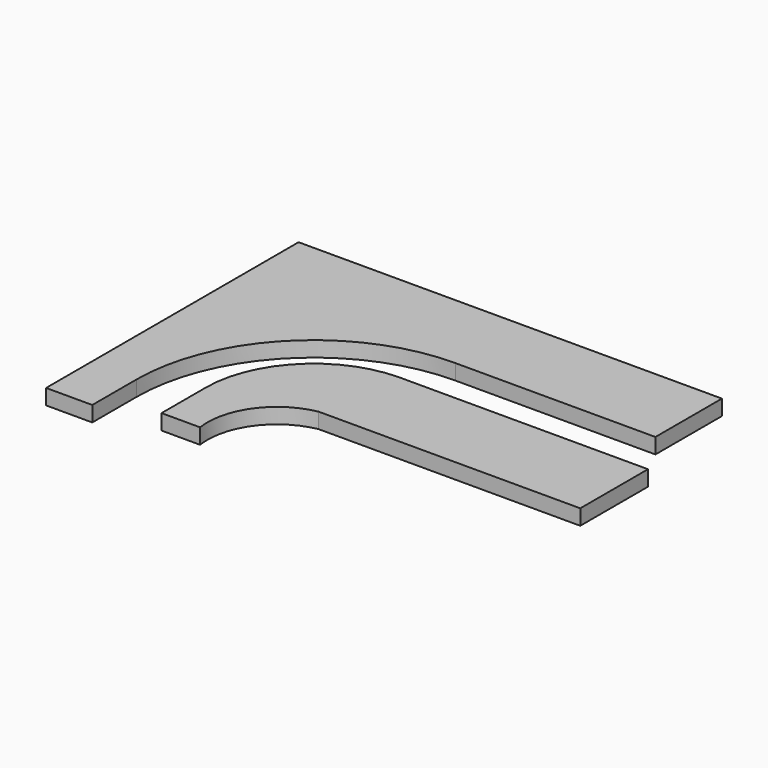
from build123d import *

# Parameters (mm, degrees)
F1_DEPTH = 10
F2_W     = 30
F2_H     = 55
F3_DEPTH = 10


with BuildPart() as f1:
    # F0 (on Top) → F1 (new body)
    with BuildSketch(Plane.XY):
        with BuildLine():
            Line((44.326924, 230.576925), (-230.673076, 230.576925))
            Line((-230.673076, 230.576925), (-230.673076, 25.576925))
            Line((-230.673076, 25.576925), (-200.673076, 25.576925))
            Line((-200.673076, 25.576925), (-200.673076, 61.576925))
            ThreePointArc((-200.673076, 61.576925), (-166.990356, 142.894205), (-85.673076, 176.576925))
            Line((-85.673076, 176.576925), (44.326924, 176.576925))
            Line((44.326924, 176.576925), (44.326924, 230.576925))
        make_face()
    extrude(amount=F1_DEPTH)


with BuildPart() as f3:
    # F2 (on face) → F3 (new body)
    with BuildSketch(Plane.XY.offset(10)):
        with Locations((60.513443, 104.076925)):
            Rectangle(F2_W, F2_H)
        with BuildLine():
            Line((45.513443, 131.576925), (-85.673076, 131.576925))
            ThreePointArc((-85.673076, 131.576925), (-135.170551, 111.0744), (-155.673076, 61.576925))
            Line((-155.673076, 61.576925), (-155.673076, 25.576925))
            Line((-155.673076, 25.576925), (-130.673076, 25.576925))
            ThreePointArc((-130.673076, 25.576925), (-122.854279, 58.367062), (-94.486557, 76.576925))
            Line((-94.486557, 76.576925), (45.513443, 76.576925))
            Line((45.513443, 76.576925), (45.513443, 131.576925))
        make_face()
    extrude(amount=F3_DEPTH)


solid = Compound([f1.part, f3.part])
